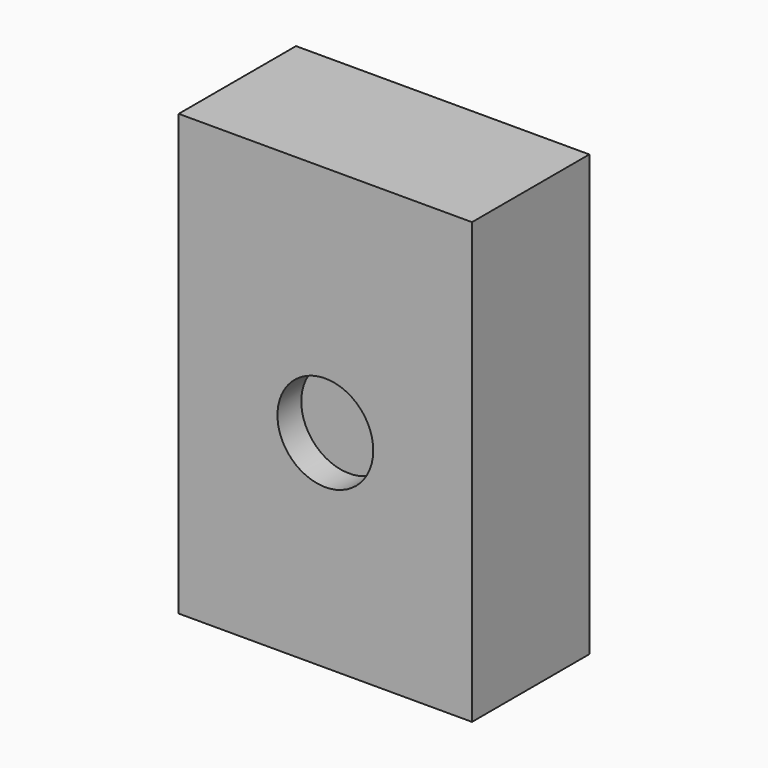
from build123d import *

# Parameters (mm, degrees)
F0_W     = 200
F0_H     = 100
F1_DEPTH = 300
F2_R     = 32.658895
F3_DEPTH = 20.32


with BuildPart() as f1:
    # F0 (on Top) → F1 (new body)
    with BuildSketch(Plane.XY):
        Rectangle(F0_W, F0_H)
    extrude(amount=-F1_DEPTH)

    # F2 (on face) → F3 (cut)
    with BuildSketch(Plane.XZ.offset(50)):
        with Locations((0, -158.981949)):
            Circle(F2_R)
    extrude(amount=-F3_DEPTH, mode=Mode.SUBTRACT)


solid = f1.part
